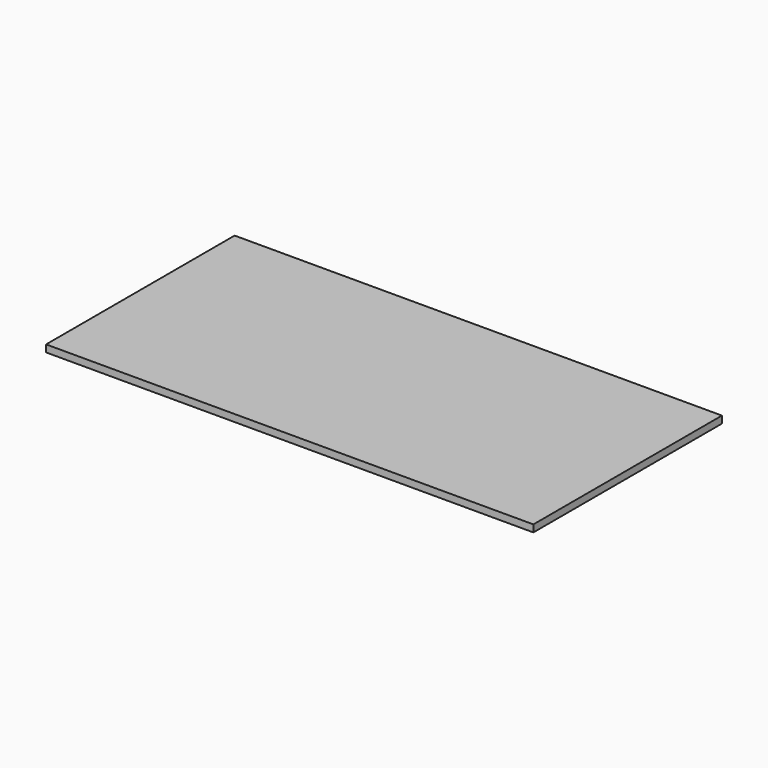
from build123d import *

# Parameters (mm, degrees)
SKETCH_W  = 110
SKETCH_H  = 53.2
PAD_DEPTH = 1.6


with BuildPart() as part:
    # Sketch → Pad (new body)
    with BuildSketch(Plane.XY):
        Rectangle(SKETCH_W, SKETCH_H)
    extrude(amount=PAD_DEPTH)


solid = part.part
